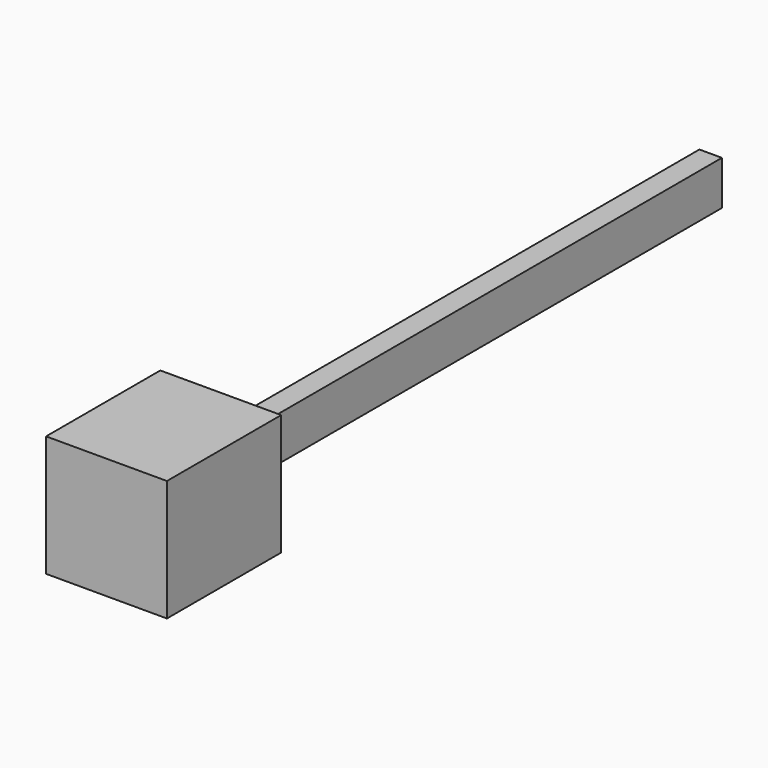
from build123d import *

# Parameters (mm, degrees)
F0_W     = 152.4
F0_H     = 298.45
F1_DEPTH = 4140.2
F2_W     = 817.099512
F2_H     = 818.349838
F3_DEPTH = 965.2


with BuildPart() as f1:
    # F0 (on Front) → F1 (new body)
    with BuildSketch(Plane.XZ):
        Rectangle(F0_W, F0_H)
    extrude(amount=F1_DEPTH)

    # F2 (on face) → F3 (join)
    with BuildSketch(Plane.XZ.offset(4140.2)):
        Rectangle(F2_W, F2_H)
    extrude(amount=F3_DEPTH)


solid = f1.part
